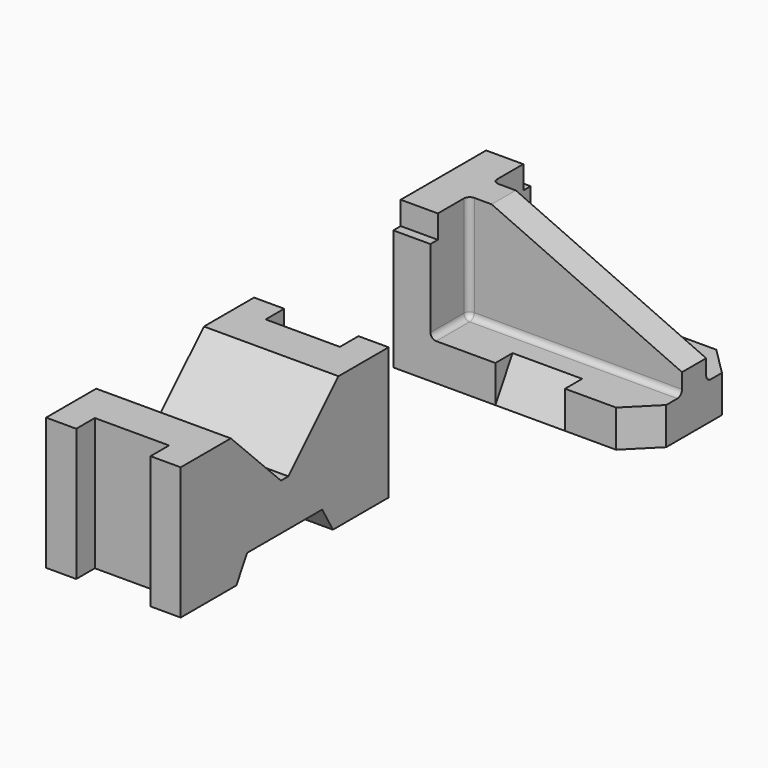
from build123d import *

# Parameters (mm, degrees)
F1_DEPTH  = 114
F3_DEPTH  = 116.001
F5_DEPTH  = 32
F6_SIZE   = 24
F9_DEPTH  = 60
F11_DEPTH = 32
F14_DEPTH = 13
F15_R     = 5


with BuildPart() as f1:
    # F0 (on Top) → F1 (new body)
    with BuildSketch(Plane.XY):
        Polygon((-58, 0), (-32, 0), (-32, 20), (0, 20), (32, 20), (32, 0), (58, 0), (58, 54), (58, 170), (58, 224), (32, 224), (32, 204), (0, 204), (-32, 204), (-32, 224), (-58, 224), (-58, 170), (-58, 54), align=None)
    extrude(amount=F1_DEPTH)

    # F2 (on face) → F3 (cut, through all)
    with BuildSketch(Plane.YZ.offset(58)):
        Polygon((71.5470053838, 20), (60, 0), (164, 0), (152.4529946162, 20), align=None)
        Polygon((170, 114), (54, 114), (108, 60), (116, 60), align=None)
    extrude(amount=-F3_DEPTH, mode=Mode.SUBTRACT)


with BuildPart() as f5:
    # F4 (on Top) → F5 (new body)
    with BuildSketch(Plane.XY):
        Polygon((-58, 482), (-58, 374), (30, 374), (90, 374), (158, 374), (158, 482), (90, 482), (30, 482), align=None)
    extrude(amount=F5_DEPTH)

    # F6
    f6_edges = [f5.edges().sort_by_distance(p)[0] for p in [
        (158, 374, 16),
        (158, 482, 16),
    ]]
    chamfer(f6_edges, length=F6_SIZE)

    # F8 (on offset) → F9 (cut)
    with BuildSketch(Plane.YZ.offset(90)):
        Polygon((392.4752086141, 32), (374, 32), (374, 0), align=None)
        Polygon((482, 0), (482, 32), (463.5247913859, 32), align=None)
    extrude(amount=-F9_DEPTH, mode=Mode.SUBTRACT)

    # F10 (on face) → F11 (join)
    with BuildSketch(Plane(origin=(-58, 0, 0), x_dir=(0, -1, 0), z_dir=(-1, 0, 0))):
        Polygon((-482, 104), (-482, 32), (-374, 32), (-374, 104), (-382, 104), (-382, 124), (-474, 124), (-474, 104), align=None)
    extrude(amount=-F11_DEPTH)

    # F13 (on offset) → F14 (join, symmetric)
    with BuildSketch(Plane(origin=(0, 428, 0), x_dir=(-1, 0, 0), z_dir=(0, 1, 0))):
        Polygon((-134, 32), (26, 32), (26, 104), (26, 124), (6, 124), (-158, 50), (-158, 32), align=None)
    extrude(amount=F14_DEPTH, both=True)

    # F15
    f15_edges = [f5.edges().sort_by_distance(p)[0] for p in [
        (-26, 415, 78),
        (66, 415, 32),
        (-26, 394.5, 32),
        (66, 441, 32),
        (-26, 461.5, 32),
        (-26, 441, 78),
    ]]
    fillet(f15_edges, radius=F15_R)


solid = Compound([f1.part, f5.part])
